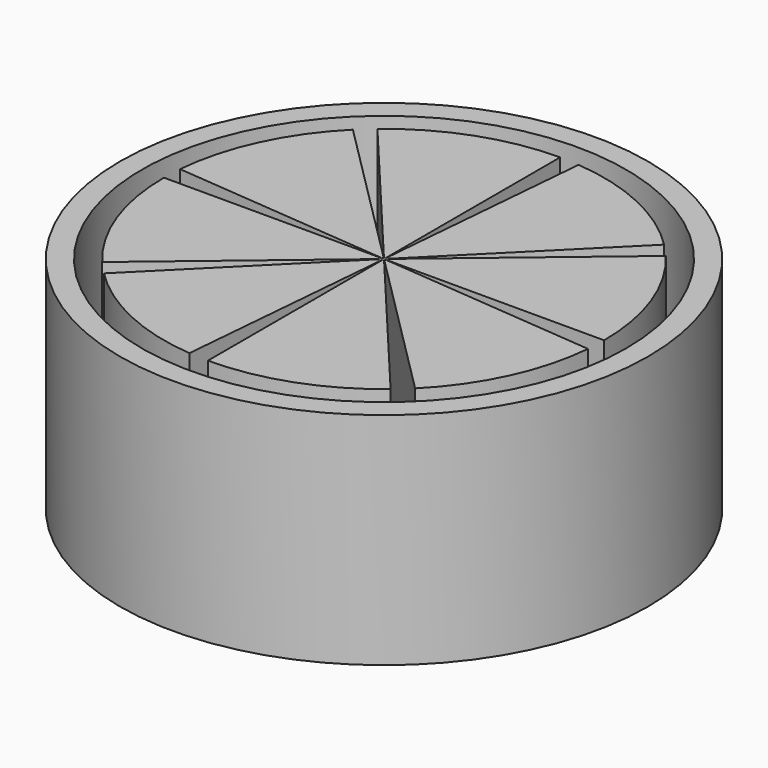
from build123d import *

# Parameters (mm, degrees)
CYLINDER003_W               = 10
CYLINDER003_H               = 10
CYLINDER003_ANGLE           = 40
CYLINDER003_PLACEMENT_ANGLE = 45
CYLINDER004_W               = 10
CYLINDER004_H               = 10
CYLINDER004_ANGLE           = 40
CYLINDER005_W               = 10
CYLINDER005_H               = 10
CYLINDER005_ANGLE           = 40
CYLINDER005_PLACEMENT_ANGLE = 135
CYLINDER006_W               = 10
CYLINDER006_H               = 10
CYLINDER006_ANGLE           = 40
CYLINDER007_W               = 10
CYLINDER007_H               = 10
CYLINDER007_ANGLE           = 40
CYLINDER007_PLACEMENT_ANGLE = 225
CYLINDER008_W               = 10
CYLINDER008_H               = 10
CYLINDER008_ANGLE           = 40
CYLINDER009_W               = 10
CYLINDER009_H               = 10
CYLINDER009_ANGLE           = 40
CYLINDER009_PLACEMENT_ANGLE = 315
CYLINDER002_W               = 10
CYLINDER002_H               = 10
CYLINDER002_ANGLE           = 40
CYLINDER001_R               = 11
CYLINDER001_DEPTH           = 10
CYLINDER_R                  = 12
CYLINDER_DEPTH              = 10


with BuildPart() as cylinder003:
    # Cylinder003 → Cylinder003 (revolve)
    with BuildSketch(Plane.XZ):
        with Locations((5, 5)):
            Rectangle(CYLINDER003_W, CYLINDER003_H)
    revolve(axis=Axis((0, 0, 0), (0, 0, 1)), revolution_arc=CYLINDER003_ANGLE)


with BuildPart() as cylinder003_1:
    # Cylinder003 placement: moved
    add(cylinder003.part.rotate(Axis((0, 0, 0), (0, 0, 1)), CYLINDER003_PLACEMENT_ANGLE))


with BuildPart() as cylinder004:
    # Cylinder004 → Cylinder004 (revolve)
    with BuildSketch(Plane.YZ):
        with Locations((5, 5)):
            Rectangle(CYLINDER004_W, CYLINDER004_H)
    revolve(axis=Axis((0, 0, 0), (0, 0, 1)), revolution_arc=CYLINDER004_ANGLE)


with BuildPart() as cylinder005:
    # Cylinder005 → Cylinder005 (revolve)
    with BuildSketch(Plane.XZ):
        with Locations((5, 5)):
            Rectangle(CYLINDER005_W, CYLINDER005_H)
    revolve(axis=Axis((0, 0, 0), (0, 0, 1)), revolution_arc=CYLINDER005_ANGLE)


with BuildPart() as cylinder005_1:
    # Cylinder005 placement: moved
    add(cylinder005.part.rotate(Axis((0, 0, 0), (0, 0, 1)), CYLINDER005_PLACEMENT_ANGLE))


with BuildPart() as cylinder006:
    # Cylinder006 → Cylinder006 (revolve)
    with BuildSketch(Plane(origin=(0, 0, 0), x_dir=(-1, 0, 0), z_dir=(0, 1, 0))):
        with Locations((5, 5)):
            Rectangle(CYLINDER006_W, CYLINDER006_H)
    revolve(axis=Axis((0, 0, 0), (0, 0, 1)), revolution_arc=CYLINDER006_ANGLE)


with BuildPart() as cylinder007:
    # Cylinder007 → Cylinder007 (revolve)
    with BuildSketch(Plane.XZ):
        with Locations((5, 5)):
            Rectangle(CYLINDER007_W, CYLINDER007_H)
    revolve(axis=Axis((0, 0, 0), (0, 0, 1)), revolution_arc=CYLINDER007_ANGLE)


with BuildPart() as cylinder007_1:
    # Cylinder007 placement: moved
    add(cylinder007.part.rotate(Axis((0, 0, 0), (0, 0, 1)), CYLINDER007_PLACEMENT_ANGLE))


with BuildPart() as cylinder008:
    # Cylinder008 → Cylinder008 (revolve)
    with BuildSketch(Plane(origin=(0, 0, 0), x_dir=(0, -1, 0), z_dir=(-1, 0, 0))):
        with Locations((5, 5)):
            Rectangle(CYLINDER008_W, CYLINDER008_H)
    revolve(axis=Axis((0, 0, 0), (0, 0, 1)), revolution_arc=CYLINDER008_ANGLE)


with BuildPart() as cylinder009:
    # Cylinder009 → Cylinder009 (revolve)
    with BuildSketch(Plane.XZ):
        with Locations((5, 5)):
            Rectangle(CYLINDER009_W, CYLINDER009_H)
    revolve(axis=Axis((0, 0, 0), (0, 0, 1)), revolution_arc=CYLINDER009_ANGLE)


with BuildPart() as cylinder009_1:
    # Cylinder009 placement: moved
    add(cylinder009.part.rotate(Axis((0, 0, 0), (0, 0, 1)), CYLINDER009_PLACEMENT_ANGLE))


with BuildPart() as cylinder002:
    # Cylinder002 → Cylinder002 (revolve)
    with BuildSketch(Plane.XZ):
        with Locations((5, 5)):
            Rectangle(CYLINDER002_W, CYLINDER002_H)
    revolve(axis=Axis((0, 0, 0), (0, 0, 1)), revolution_arc=CYLINDER002_ANGLE)


with BuildPart() as cut007:
    # Cylinder001 → Cylinder001 (new body)
    with BuildSketch(Plane.XY):
        Circle(CYLINDER001_R)
    extrude(amount=CYLINDER001_DEPTH)

    # Cut: cut Cylinder002
    add(cylinder002.part, mode=Mode.SUBTRACT)

    # Cut001: cut Cylinder009
    add(cylinder009_1.part, mode=Mode.SUBTRACT)

    # Cut002: cut Cylinder008
    add(cylinder008.part, mode=Mode.SUBTRACT)

    # Cut003: cut Cylinder007
    add(cylinder007_1.part, mode=Mode.SUBTRACT)

    # Cut004: cut Cylinder006
    add(cylinder006.part, mode=Mode.SUBTRACT)

    # Cut005: cut Cylinder005
    add(cylinder005_1.part, mode=Mode.SUBTRACT)

    # Cut006: cut Cylinder004
    add(cylinder004.part, mode=Mode.SUBTRACT)

    # Cut007: cut Cylinder003
    add(cylinder003_1.part, mode=Mode.SUBTRACT)


with BuildPart() as cut008:
    # Cylinder → Cylinder (new body)
    with BuildSketch(Plane.XY):
        Circle(CYLINDER_R)
    extrude(amount=CYLINDER_DEPTH)

    # Cut008: cut Cut007
    add(cut007.part, mode=Mode.SUBTRACT)


solid = cut008.part
